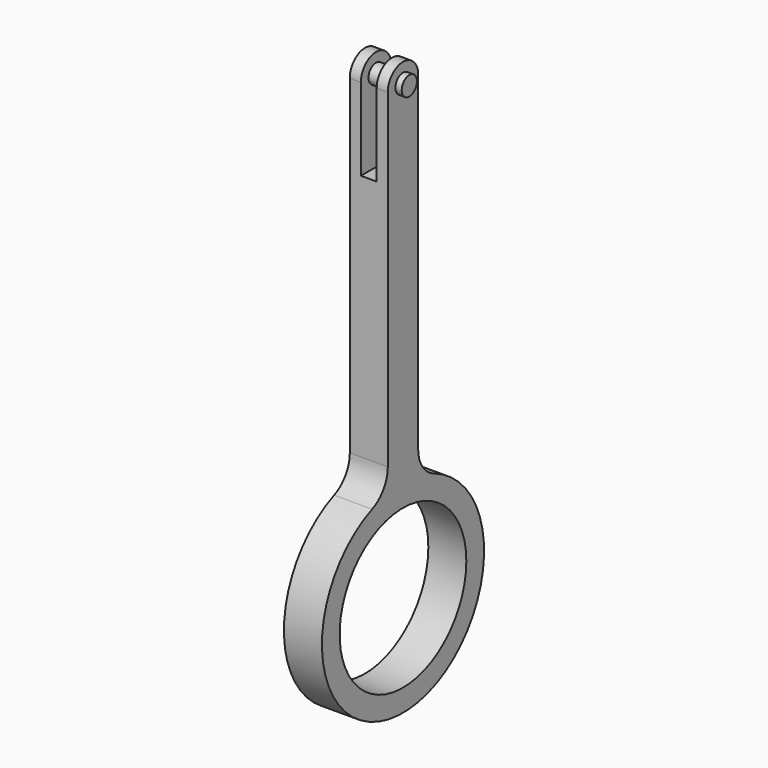
from build123d import *

# Parameters (mm, degrees)
F0_R          = 12.5
F0_R_2        = 1.5
F1_DEPTH      = 6
F2_W          = 2.5
F2_H          = 6
F2_H_2        = 13
F3_DEPTH      = 19.001
F4_R          = 1.5
F5_DEPTH      = 1
F5_DEPTH_BACK = 7


with BuildPart() as f1:
    # F0 (on Right) → F1 (new body)
    with BuildSketch(Plane.YZ):
        with BuildLine():
            ThreePointArc((-3, 19.416488), (-3.845255, 16.634745), (-6.095238, 14.793515))
            ThreePointArc((-6.095238, 14.793515), (0, -16), (6.095238, 14.793515))
            ThreePointArc((6.095238, 14.793515), (3.845255, 16.634745), (3, 19.416488))
            Line((3, 19.416488), (3, 71.5))
            ThreePointArc((3, 71.5), (0, 74.5), (-3, 71.5))
            Line((-3, 71.5), (-3, 19.416488))
        make_face()
        Circle(F0_R, mode=Mode.SUBTRACT)
        with Locations((0, 71.5)):
            Circle(F0_R_2, mode=Mode.SUBTRACT)
    extrude(amount=F1_DEPTH)

    # F2 (on face) → F3 (cut, through all)
    with BuildSketch(Plane.XZ.offset(3)):
        with Locations((3, 74.5)):
            Rectangle(F2_W, F2_H)
        with Locations((3, 65)):
            Rectangle(F2_W, F2_H_2)
    extrude(amount=-F3_DEPTH, mode=Mode.SUBTRACT)


with BuildPart() as f5:
    # F4 (on face) → F5 (new body, two sides)
    with BuildSketch(Plane.YZ.offset(6)) as f5_sk:
        with Locations((0, 71.5)):
            Circle(F4_R)
    extrude(amount=F5_DEPTH)
    extrude(f5_sk.sketch, amount=-F5_DEPTH_BACK)


solid = Compound([f1.part, f5.part])
